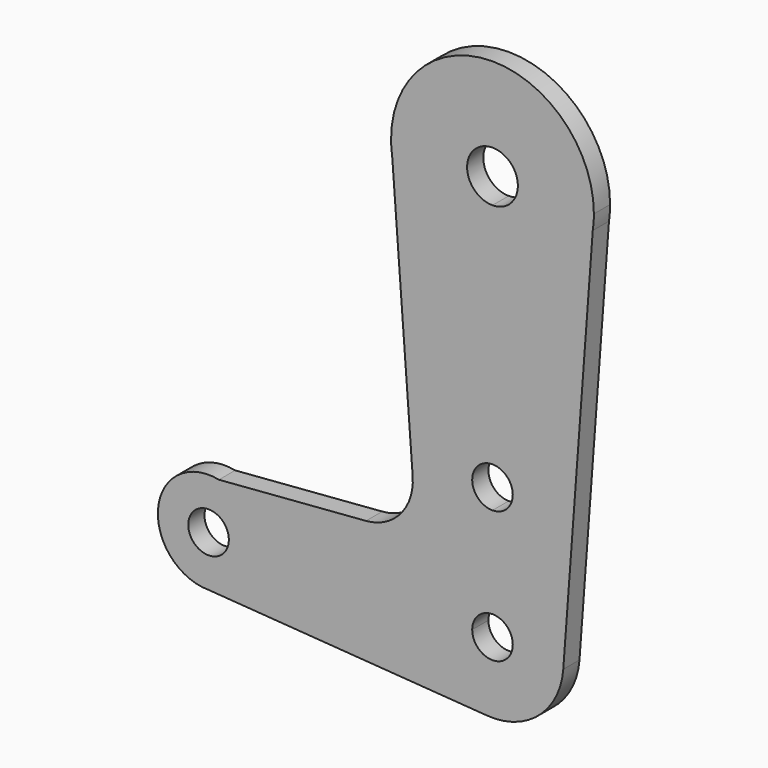
from build123d import *

# Parameters (mm, degrees)
F0_R     = 3.175
F1_DEPTH = 3.175


with BuildPart() as f1:
    # F0 (on Front) → F1 (new body)
    with BuildSketch(Plane.XZ):
        with BuildLine():
            Line((15.875, 0), (15.6996828294, -2.3527821949))
            ThreePointArc((15.6996828294, -2.3527821949), (15.8311100356, -1.1796525089), (15.875, 0))
        make_face()
        with BuildLine():
            Line((11.0817770249, -64.3257567562), (15.6996828294, -2.3527821949))
            Line((15.6996828294, -2.3527821949), (15.875, 0))
            ThreePointArc((15.875, 0), (0, 15.875), (-15.875, 0))
            Line((-15.875, 0), (-15.6996828294, -2.3527821949))
            Line((-15.6996828294, -2.3527821949), (-12.4922482956, -45.3970250149))
            ThreePointArc((-12.4922482956, -45.3970250149), (-14.385533004, -51.1632405956), (-19.7957391271, -53.9134112843))
            Line((-19.7957391271, -53.9134112843), (-42.831776457, -55.7292047502))
            ThreePointArc((-42.831776457, -55.7292047502), (-52.3444273977, -62.6742141245), (-44.474917295, -71.4374608899))
            Line((-44.474917295, -71.4374608899), (-0.7984409909, -74.5837786081))
            ThreePointArc((-0.7984409909, -74.5837786081), (7.2624722427, -71.9109543557), (11.0817770249, -64.3257567562))
        make_face()
        with Locations((-44.45, -63.5)):
            Circle(F0_R, mode=Mode.SUBTRACT)
        with BuildLine():
            ThreePointArc((-3.175, -63.5), (-2.2450640303, -61.2549359697), (0, -60.325))
            ThreePointArc((0, -60.325), (2.2450640303, -61.2549359697), (3.175, -63.5))
            ThreePointArc((3.175, -63.5), (0, -66.675), (-3.175, -63.5))
        make_face(mode=Mode.SUBTRACT)
        with BuildLine():
            ThreePointArc((0, -46.0248), (-3.175, -42.8498), (0, -39.6748))
            ThreePointArc((0, -39.6748), (2.2450640303, -40.6047359697), (3.175, -42.8498))
            ThreePointArc((3.175, -42.8498), (2.2450640303, -45.0948640303), (0, -46.0248))
        make_face(mode=Mode.SUBTRACT)
        with BuildLine():
            ThreePointArc((3.9751, 0), (2.8108201659, -2.8108201659), (0, -3.9751))
            ThreePointArc((0, -3.9751), (-2.8108201659, 2.8108201659), (3.9751, 0))
        make_face(mode=Mode.SUBTRACT)
        with BuildLine():
            Line((-15.6996828294, -2.3527821949), (-15.875, 0))
            ThreePointArc((-15.875, 0), (-15.8311100356, -1.1796525089), (-15.6996828294, -2.3527821949))
        make_face()
    extrude(amount=F1_DEPTH)


solid = f1.part
